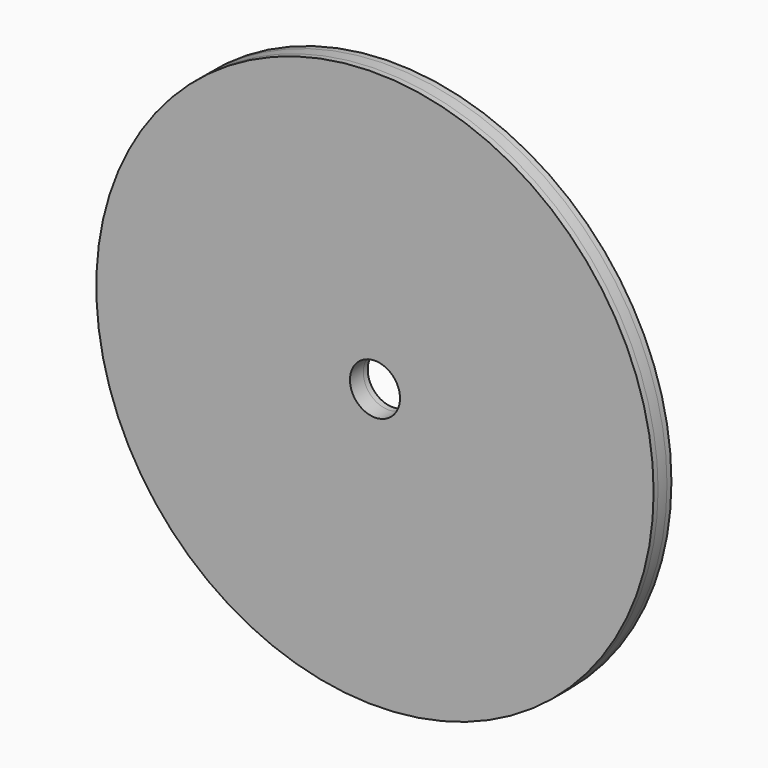
from build123d import *

# Parameters (mm, degrees)
F0_R      = 50.1
F0_R_2    = 4.5
F1_DEPTH  = 3
F1_FACE_R = 50.1
F2_DEPTH  = 1
F3_R      = 4.5
F4_DEPTH  = 25


with BuildPart() as f1:
    # F0 (on Front) → F1 (new body)
    with BuildSketch(Plane.XZ):
        Circle(F0_R)
        Circle(F0_R_2, mode=Mode.SUBTRACT)
        Circle(F0_R_2)
    extrude(amount=F1_DEPTH)

    # F0 (on Front) + F1_face (on face) → F2 (join)
    with BuildSketch(Plane.XZ):
        Circle(F0_R)
        Circle(F0_R_2, mode=Mode.SUBTRACT)
    with BuildSketch(Plane.XZ.offset(3)):
        Circle(F1_FACE_R)
    extrude(amount=-F2_DEPTH)

    # F3 (on face) → F4 (cut)
    with BuildSketch(Plane.XZ.offset(3)):
        Circle(F3_R)
    extrude(amount=-F4_DEPTH, mode=Mode.SUBTRACT)


solid = f1.part
